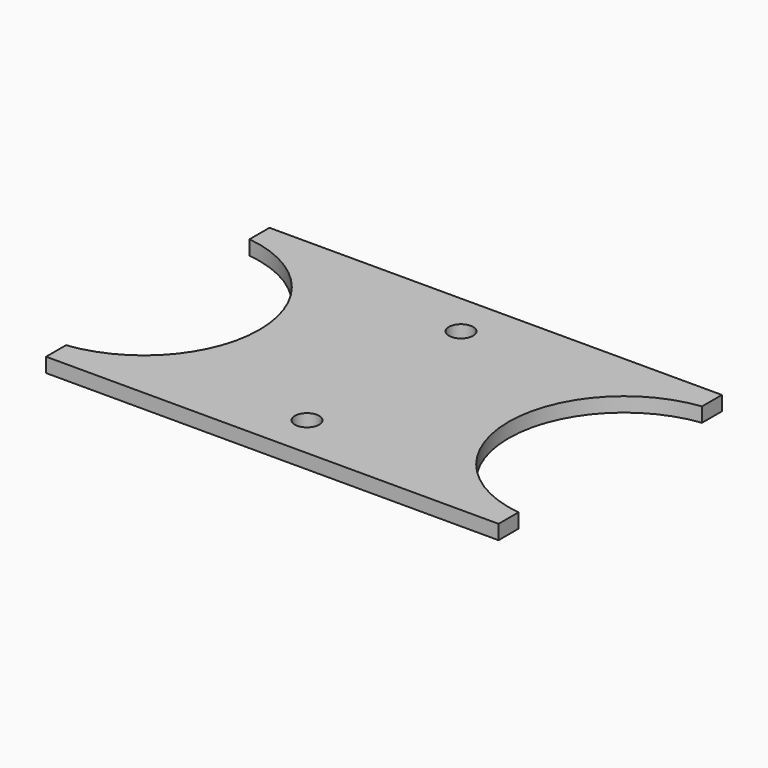
from build123d import *

# Parameters (mm, degrees)
F0_W     = 38.1
F0_H     = 92.075
F1_DEPTH = 4.7625
F3_DEPTH = 4.7625
F4_R     = 3.98907
F5_DEPTH = 4.7635


with BuildPart() as f1:
    # F0 (on Top) → F1 (new body)
    with BuildSketch(Plane.XY):
        with Locations((0, -46.0375)):
            Rectangle(F0_W, F0_H)
    extrude(amount=-F1_DEPTH)

    # F2 (on Top) → F3 (join)
    with BuildSketch(Plane.XY):
        with BuildLine():
            Line((-19.05, 0), (-74.6125, 0))
            Line((-74.6125, 0), (-74.6125, -8.212815))
            ThreePointArc((-74.6125, -8.212815), (-41.0845, -46.0375), (-74.6125, -83.862185))
            Line((-74.6125, -83.862185), (-74.6125, -92.075))
            Line((-74.6125, -92.075), (-19.05, -92.075))
            Line((-19.05, -92.075), (-19.05, 0))
        make_face()
        with BuildLine():
            Line((74.6125, -8.212815), (74.6125, 0))
            Line((74.6125, 0), (19.05, 0))
            Line((19.05, 0), (19.05, -92.075))
            Line((19.05, -92.075), (74.6125, -92.075))
            Line((74.6125, -92.075), (74.6125, -83.862185))
            ThreePointArc((74.6125, -83.862185), (41.0845, -46.0375), (74.6125, -8.212815))
        make_face()
    extrude(amount=-F3_DEPTH)

    # F4 (on Top) → F5 (cut, through all)
    with BuildSketch(Plane.XY):
        with Locations((0, -14.2875)):
            Circle(F4_R)
        with Locations((0, -77.7875)):
            Circle(F4_R)
    extrude(amount=-F5_DEPTH, mode=Mode.SUBTRACT)


solid = f1.part
